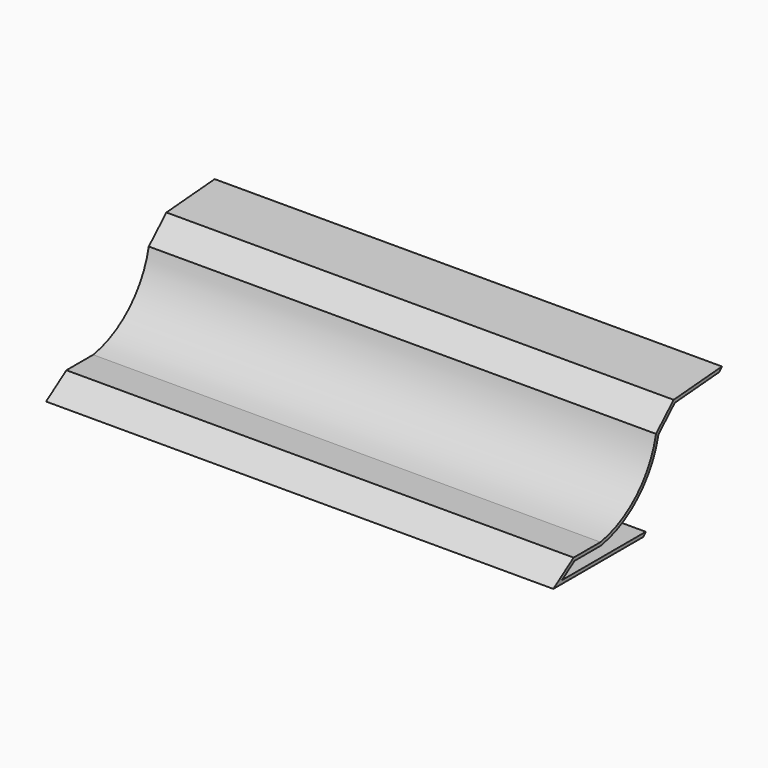
from build123d import *

# Parameters (mm, degrees)
F1_DEPTH = 1
F3_DEPTH = 304.8


with BuildPart() as f1:
    # F0 (on Right) → F1 (new body)
    with BuildSketch(Plane.YZ):
        with BuildLine():
            ThreePointArc((-13.239064, 40.292807), (-27.888887, 13.708306), (-54.970898, 0))
            Line((-54.970898, 0), (-75.117305, 0))
            Line((-75.117305, 0), (-90.381816, -10.361006))
            Line((-90.381816, -10.361006), (-22.722413, -10.361006))
            Line((-22.722413, -10.361006), (36.263525, 55.834316))
            Line((36.263525, 55.834316), (0, 52.930318))
            Line((0, 52.930318), (-13.239064, 40.292807))
        make_face()
    extrude(amount=F1_DEPTH)

    # F2 (on face) → F3 (join)
    with BuildSketch(Plane.YZ):
        with BuildLine():
            Line((-83.8741, -8.361006), (-74.50265, -2))
            Line((-74.50265, -2), (-54.802822, -2))
            ThreePointArc((-54.802822, -2), (-26.788501, 11.992738), (-11.411912, 39.272022))
            Line((-11.411912, 39.272022), (0.867385, 50.993376))
            Line((0.867385, 50.993376), (34.338257, 53.673737))
            Line((34.338257, 53.673737), (36.263525, 55.834316))
            Line((36.263525, 55.834316), (0, 52.930318))
            Line((0, 52.930318), (-13.239064, 40.292807))
            ThreePointArc((-13.239064, 40.292807), (-27.888887, 13.708306), (-54.970898, 0))
            Line((-54.970898, 0), (-75.117305, 0))
            Line((-75.117305, 0), (-90.381816, -10.361006))
            Line((-90.381816, -10.361006), (-22.722413, -10.361006))
            Line((-22.722413, -10.361006), (-20.940234, -8.361006))
            Line((-20.940234, -8.361006), (-83.8741, -8.361006))
        make_face()
    extrude(amount=F3_DEPTH)


solid = f1.part
